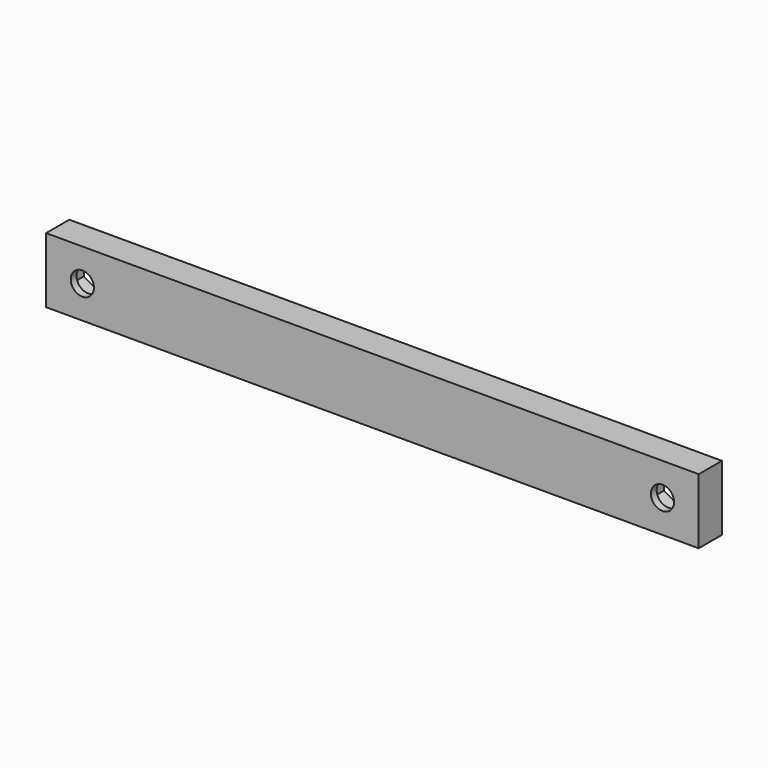
from build123d import *

# Parameters (mm, degrees)
SKETCH089_W     = 90
SKETCH089_H     = 9
SKETCH089_R     = 1.6
PAD034_DEPTH    = 4
POCKET055_DEPTH = 3


with BuildPart() as part:
    # Sketch089 → Pad034 (new body)
    with BuildSketch(Plane.XZ):
        with Locations((0, 34)):
            Rectangle(SKETCH089_W, SKETCH089_H)
        with Locations((-40, 34)):
            Circle(SKETCH089_R, mode=Mode.SUBTRACT)
        with Locations((40, 34)):
            Circle(SKETCH089_R, mode=Mode.SUBTRACT)
    extrude(amount=PAD034_DEPTH)

    # Sketch090 (on Face7 of Pad034) → Pocket055 (cut)
    with BuildSketch(Plane(origin=(0, 0, 0), x_dir=(1, 0, 0), z_dir=(0, 1, 0))):
        Polygon((-37, -32.267949), (-40, -30.535898), (-43, -32.267949), (-43, -35.732051), (-40, -37.464102), (-37, -35.732051), align=None)
    pocket055 = extrude(amount=-POCKET055_DEPTH, mode=Mode.SUBTRACT)

    # Mirrored005: Pocket055 across Sketch090 V_Axis
    add(pocket055.mirror(Plane.YZ), mode=Mode.SUBTRACT)


with BuildPart() as part_1:
    # Body012 placement: moved
    add(part.part.moved(Location((0, 19, 100))))


solid = part_1.part
